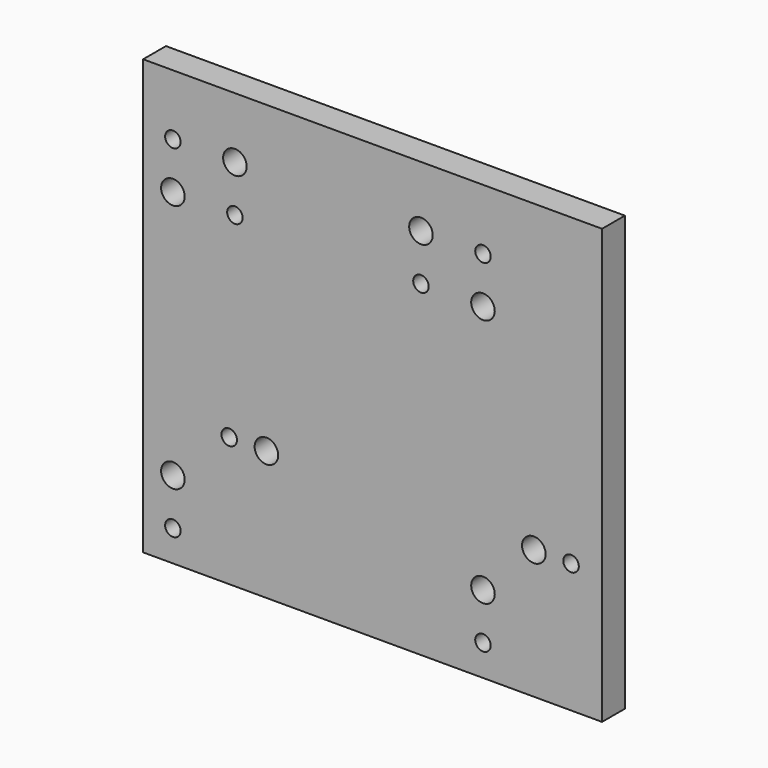
from build123d import *

# Parameters (mm, degrees)
F0_W     = 93.98
F0_H     = 88.9
F0_R     = 1.5875
F0_R_2   = 2.413
F1_DEPTH = 5.842


with BuildPart() as f1:
    # F0 (on Front) → F1 (new body)
    with BuildSketch(Plane.XZ):
        with Locations((46.99, -44.45)):
            Rectangle(F0_W, F0_H)
        with Locations((6.096, -82.55)):
            Circle(F0_R, mode=Mode.SUBTRACT)
        with Locations((6.096, -73.025)):
            Circle(F0_R_2, mode=Mode.SUBTRACT)
        with Locations((17.6276, -62.4078)):
            Circle(F0_R, mode=Mode.SUBTRACT)
        with Locations((25.2476, -62.4078)):
            Circle(F0_R_2, mode=Mode.SUBTRACT)
        with Locations((69.596, -82.55)):
            Circle(F0_R, mode=Mode.SUBTRACT)
        with Locations((69.596, -73.025)):
            Circle(F0_R_2, mode=Mode.SUBTRACT)
        with Locations((80.01, -62.4078)):
            Circle(F0_R_2, mode=Mode.SUBTRACT)
        with Locations((87.63, -62.4078)):
            Circle(F0_R, mode=Mode.SUBTRACT)
        with Locations((6.096, -21.971)):
            Circle(F0_R_2, mode=Mode.SUBTRACT)
        with Locations((6.096, -12.446)):
            Circle(F0_R, mode=Mode.SUBTRACT)
        with Locations((18.796, -21.971)):
            Circle(F0_R, mode=Mode.SUBTRACT)
        with Locations((18.796, -12.446)):
            Circle(F0_R_2, mode=Mode.SUBTRACT)
        with Locations((56.896, -21.971)):
            Circle(F0_R, mode=Mode.SUBTRACT)
        with Locations((56.896, -12.446)):
            Circle(F0_R_2, mode=Mode.SUBTRACT)
        with Locations((69.596, -21.971)):
            Circle(F0_R_2, mode=Mode.SUBTRACT)
        with Locations((69.596, -12.446)):
            Circle(F0_R, mode=Mode.SUBTRACT)
    extrude(amount=F1_DEPTH)


solid = f1.part
